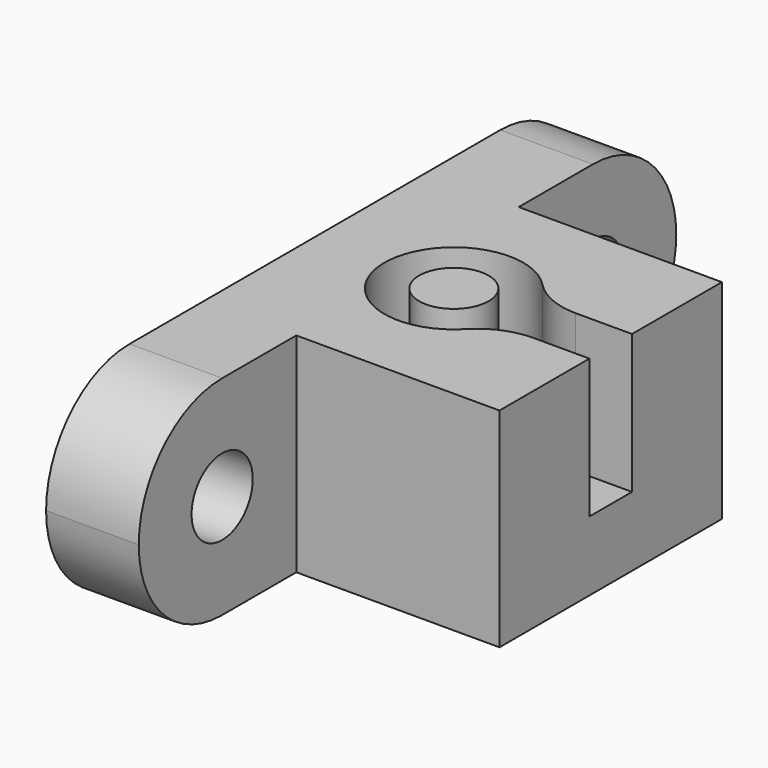
from build123d import *

# Parameters (mm, degrees)
F1_DEPTH = 6
F0_R     = 1.5
F2_W     = 12.7708302005
F2_H     = 12
F3_DEPTH = 3
F4_R     = 3
F6_DEPTH = 4
F7_D     = 3.3


with BuildPart() as f1:
    # F0 (on Top) → F1 (new body)
    with BuildSketch(Plane.XY):
        with BuildLine():
            ThreePointArc((2.7708302005, -1.15), (-3, 0), (2.7708302005, 1.15))
            Line((2.7708302005, 1.15), (6.7708302005, 1.15))
            Line((6.7708302005, 1.15), (6.7708302005, 6))
            Line((6.7708302005, 6), (-6, 6))
            Line((-6, 6), (-6, 0))
            Line((-6, 0), (-6, -6))
            Line((-6, -6), (6.7708302005, -6))
            Line((6.7708302005, -6), (6.7708302005, -1.15))
            Line((6.7708302005, -1.15), (2.7708302005, -1.15))
        make_face()
    extrude(amount=F1_DEPTH)



with BuildPart() as f1b:
    # F0 (on Top) → F1, piece 2 (new body)
    with BuildSketch(Plane.XY):
        Circle(F0_R)
    extrude(amount=F1_DEPTH)


with BuildPart() as f1_1:
    add(f1.part)

    add(f1b.part)  # F3 merges F1b
    # F2 (on face) → F3 (join)
    with BuildSketch(Plane(origin=(0, 0, 0), x_dir=(1, 0, 0), z_dir=(0, 0, -1))):
        with Locations((0.3854151002, 0)):
            Rectangle(F2_W, F2_H)
    extrude(amount=F3_DEPTH)

    # F4
    f4_edges = [f1_1.edges().sort_by_distance(p)[0] for p in [
        (2.77083, -1.15, 3),
        (2.77083, 1.15, 3),
    ]]
    fillet(f4_edges, radius=F4_R)

    # F5 (on face) → F6 (join)
    with BuildSketch(Plane(origin=(-6, 0, 0), x_dir=(0, -1, 0), z_dir=(-1, 0, 0))):
        with BuildLine():
            Line((-6, -3), (-6, 6))
            Line((-6, 6), (-10, 6))
            ThreePointArc((-10, 6), (-13.1819805153, 4.6819805153), (-14.5, 1.5))
            ThreePointArc((-14.5, 1.5), (-13.1819805153, -1.6819805153), (-10, -3))
            Line((-10, -3), (-6, -3))
        make_face()
        with BuildLine():
            Line((10, 6), (6, 6))
            Line((6, 6), (6, -3))
            Line((6, -3), (10, -3))
            ThreePointArc((10, -3), (13.1819805153, -1.6819805153), (14.5, 1.5))
            ThreePointArc((14.5, 1.5), (13.1819805153, 4.6819805153), (10, 6))
        make_face()
    extrude(amount=-F6_DEPTH)

    # F7 (through all)
    with Locations(Plane(origin=(-6, 0, 0), x_dir=(0, -1, 0), z_dir=(-1, 0, 0))):
        with Locations((-10, 1.5), (10, 1.5)):
            Hole(F7_D / 2)


solid = f1_1.part
